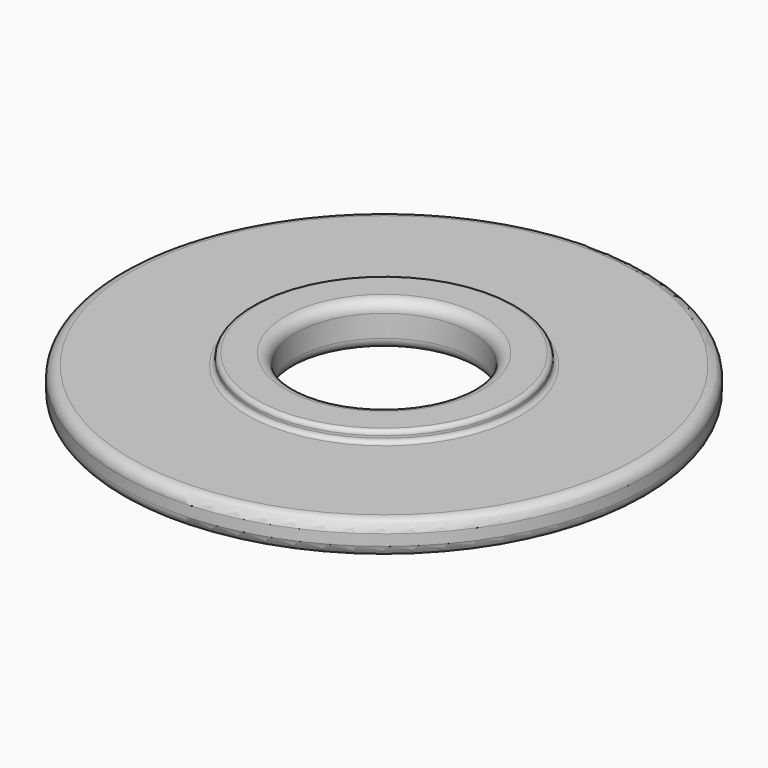
from build123d import *

# Parameters (mm, degrees)
F0_R     = 6
F0_R_2   = 4
F1_DEPTH = 2
F0_R_3   = 12
F2_DEPTH = 1.5
F3_R     = 0.5
F4_R     = 0.2
F5_R     = 0.5


with BuildPart() as f1:
    # F0 (on Top) → F1 (new body)
    with BuildSketch(Plane.XY):
        Circle(F0_R)
        Circle(F0_R_2, mode=Mode.SUBTRACT)
    extrude(amount=F1_DEPTH)

    # F0 (on Top) → F2 (join)
    with BuildSketch(Plane.XY):
        Circle(F0_R_3)
        Circle(F0_R, mode=Mode.SUBTRACT)
    extrude(amount=F2_DEPTH)

    # F3
    f3_edges = [f1.edges().sort_by_distance(p)[0] for p in [
        (-12, 0, 1.5),
    ]]
    fillet(f3_edges, radius=F3_R)

    # F4
    f4_edges = [f1.edges().sort_by_distance(p)[0] for p in [
        (-6, 0, 1.5),
        (-6, 0, 2),
    ]]
    fillet(f4_edges, radius=F4_R)

    # F5
    f5_edges = [f1.edges().sort_by_distance(p)[0] for p in [
        (-12, 0, 0),
        (-4, 0, 0),
        (-4, 0, 2),
    ]]
    fillet(f5_edges, radius=F5_R)


solid = f1.part
